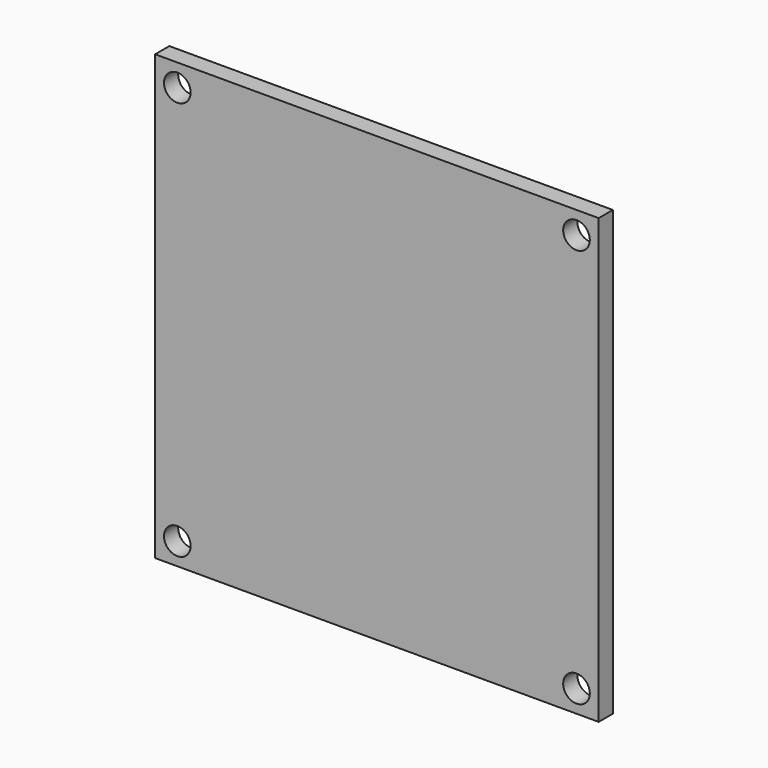
from build123d import *

# Parameters (mm, degrees)
F0_W     = 50
F0_H     = 50
F0_R     = 1.5
F1_DEPTH = 2


with BuildPart() as f1:
    # F0 (on Front) → F1 (new body)
    with BuildSketch(Plane.XZ):
        Rectangle(F0_W, F0_H)
        with Locations((-22.5, -22.5)):
            Circle(F0_R, mode=Mode.SUBTRACT)
        with Locations((22.5, -22.5)):
            Circle(F0_R, mode=Mode.SUBTRACT)
        with Locations((-22.5, 22.5)):
            Circle(F0_R, mode=Mode.SUBTRACT)
        with Locations((22.5, 22.5)):
            Circle(F0_R, mode=Mode.SUBTRACT)
    extrude(amount=-F1_DEPTH)


solid = f1.part
